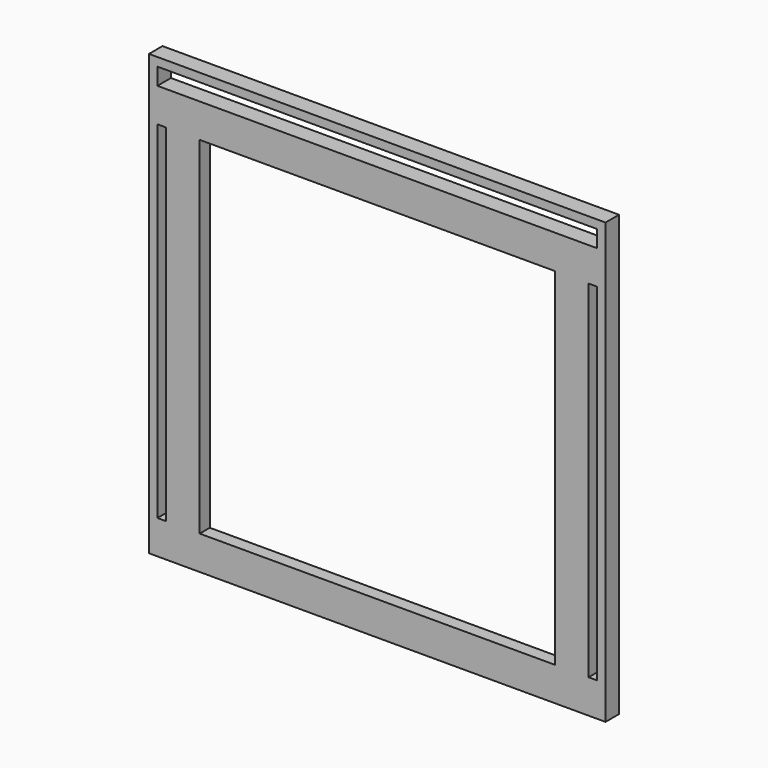
from build123d import *

# Parameters (mm, degrees)
F0_W      = 342.9
F0_H      = 330.2
F1_DEPTH  = 12.7
F2_W      = 292.1
F2_H      = 285.75
F3_DEPTH  = 12.7
F4_W      = 330.2
F4_H      = 12.7
F4_W_2    = 6.35
F4_H_2    = 260.35
F5_DEPTH  = 12.7
F6_W      = 292.1
F6_H      = 9.525
F7_DEPTH  = 12.7
F8_W      = 292.1
F8_H      = 9.525
F9_DEPTH  = 12.7
F10_W     = 9.525
F10_H     = 260.35
F11_DEPTH = 12.7
F12_W     = 9.525
F12_H     = 260.35
F13_DEPTH = 12.7


with BuildPart() as f1:
    # F0 (on Front) → F1 (new body)
    with BuildSketch(Plane.XZ):
        with Locations((171.45, 165.1)):
            Rectangle(F0_W, F0_H)
    extrude(amount=F1_DEPTH)

    # F2 (on face) → F3 (cut)
    with BuildSketch(Plane.XZ.offset(12.7)):
        with Locations((171.45, 155.575)):
            Rectangle(F2_W, F2_H)
    extrude(amount=-F3_DEPTH, mode=Mode.SUBTRACT)

    # F4 (on face) → F5 (cut)
    with BuildSketch(Plane.XZ.offset(12.7)):
        with Locations((171.45, 317.5)):
            Rectangle(F4_W, F4_H)
        with Locations((9.525, 155.575)):
            Rectangle(F4_W_2, F4_H_2)
        with Locations((333.375, 155.575)):
            Rectangle(F4_W_2, F4_H_2)
    extrude(amount=-F5_DEPTH, mode=Mode.SUBTRACT)

    # F6 (on face) → F7 (join)
    with BuildSketch(Plane.XY.offset(12.7)):
        with Locations((171.45, -7.9375)):
            Rectangle(F6_W, F6_H)
    extrude(amount=F7_DEPTH)

    # F8 (on face) → F9 (join)
    with BuildSketch(Plane(origin=(0, 0, 298.45), x_dir=(1, 0, 0), z_dir=(0, 0, -1))):
        with Locations((171.45, 7.9375)):
            Rectangle(F8_W, F8_H)
    extrude(amount=F9_DEPTH)

    # F10 (on face) → F11 (join)
    with BuildSketch(Plane(origin=(317.5, 0, 0), x_dir=(0, -1, 0), z_dir=(-1, 0, 0))):
        with Locations((7.9375, 155.575)):
            Rectangle(F10_W, F10_H)
    extrude(amount=F11_DEPTH)

    # F12 (on face) → F13 (join)
    with BuildSketch(Plane.YZ.offset(25.4)):
        with Locations((-7.9375, 155.575)):
            Rectangle(F12_W, F12_H)
    extrude(amount=F13_DEPTH)


solid = f1.part
